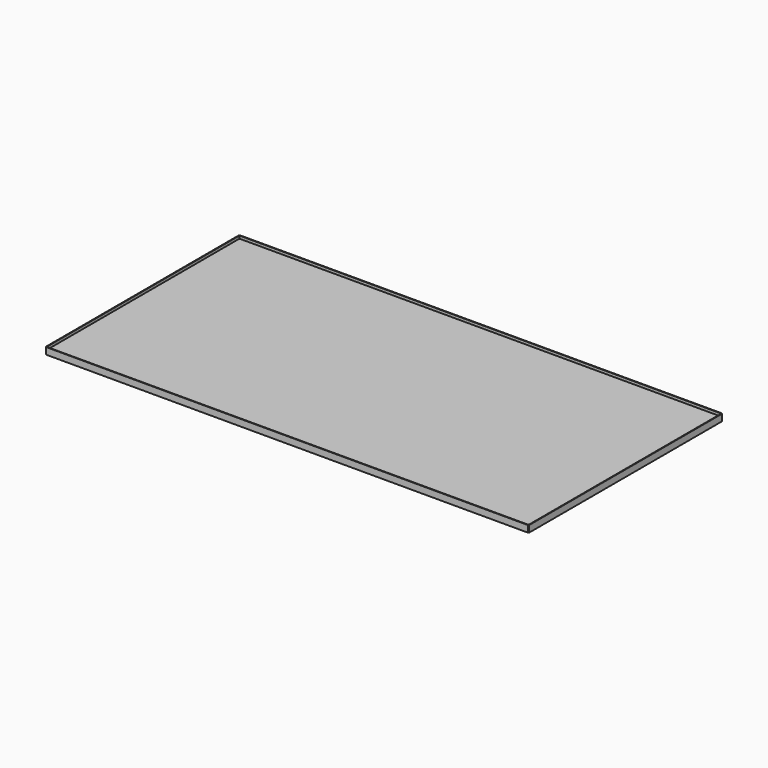
from build123d import *

# Parameters (mm, degrees)
F0_W      = 1828.8
F0_H      = 25.4
F1_DEPTH  = 3657.6
F3_DEPTH  = 3657.6
F5_DEPTH  = 3657.6
F7_DEPTH  = 4.7625
F9_DEPTH  = 1828.8
F11_DEPTH = 4.7625
F12_DEPTH = 1828.8
F14_DEPTH = 4.7625


with BuildPart() as f1:
    # F0 (on Right) → F1 (new body)
    with BuildSketch(Plane.YZ):
        with Locations((-914.4, 12.7)):
            Rectangle(F0_W, F0_H)
    extrude(amount=-F1_DEPTH)


with BuildPart() as f3:
    # F2 (on face) → F3 (new body, through all)
    with BuildSketch(Plane.YZ):
        Polygon((-1782.7625, 0), (-1828.8, 0), (-1828.8, 46.0375), (-1833.5625, 46.0375), (-1833.5625, -4.7625), (-1782.7625, -4.7625), align=None)
    extrude(amount=-F3_DEPTH)

    # F6 (on face) → F7 (cut, through all)
    with BuildSketch(Plane(origin=(0, 0, -4.7625), x_dir=(1, 0, 0), z_dir=(0, 0, -1))):
        Polygon((0, 1828.8), (-46.0375, 1782.7625), (0, 1782.7625), align=None)
        Polygon((-3657.6, 1828.8), (-3657.6, 1782.7625), (-3611.5625, 1782.7625), align=None)
    extrude(amount=-F7_DEPTH, mode=Mode.SUBTRACT)


with BuildPart() as f5:
    # F4 (on face) → F5 (new body, through all)
    with BuildSketch(Plane.YZ):
        Polygon((0, 46.0375), (0, 0), (-46.0375, 0), (-46.0375, -4.7625), (4.7625, -4.7625), (4.7625, 46.0375), align=None)
    extrude(amount=-F5_DEPTH)

    # F10 (on face) → F11 (cut, through all)
    with BuildSketch(Plane(origin=(0, 0, -4.7625), x_dir=(1, 0, 0), z_dir=(0, 0, -1))):
        Polygon((-3611.5625, 0), (-3611.5625, 46.0375), (-3657.6, 0), align=None)
        Polygon((-46.0375, 46.0375), (0, 0), (0, 46.0375), align=None)
    extrude(amount=-F11_DEPTH, mode=Mode.SUBTRACT)


with BuildPart() as f9:
    # F8 (on face) → F9 (new body, through all)
    with BuildSketch(Plane.XZ.offset(1828.8)):
        Polygon((-3611.5625, 0), (-3657.6, 0), (-3657.6, 25.4), (-3657.6, 46.0375), (-3662.3625, 46.0375), (-3662.3625, -4.7625), (-3611.5625, -4.7625), align=None)
    extrude(amount=-F9_DEPTH)


with BuildPart() as f12:
    # F8 (on face) → F12 (new body, through all)
    with BuildSketch(Plane.XZ.offset(1828.8)):
        Polygon((0, 0), (-46.0375, 0), (-46.0375, -4.7625), (4.7625, -4.7625), (4.7625, 46.0375), (0, 46.0375), (0, 25.4), align=None)
    extrude(amount=-F12_DEPTH)

    # F13 (on face) → F14 (cut, through all)
    with BuildSketch(Plane(origin=(0, 0, -4.7625), x_dir=(1, 0, 0), z_dir=(0, 0, -1))):
        Polygon((-46.0375, 1828.8), (-46.0375, 1782.7625), (0, 1828.8), align=None)
        Polygon((-46.0375, 0), (0, 0), (-46.0375, 46.0375), align=None)
    extrude(amount=-F14_DEPTH, mode=Mode.SUBTRACT)


solid = Compound([f1.part, f3.part, f5.part, f9.part, f12.part])
